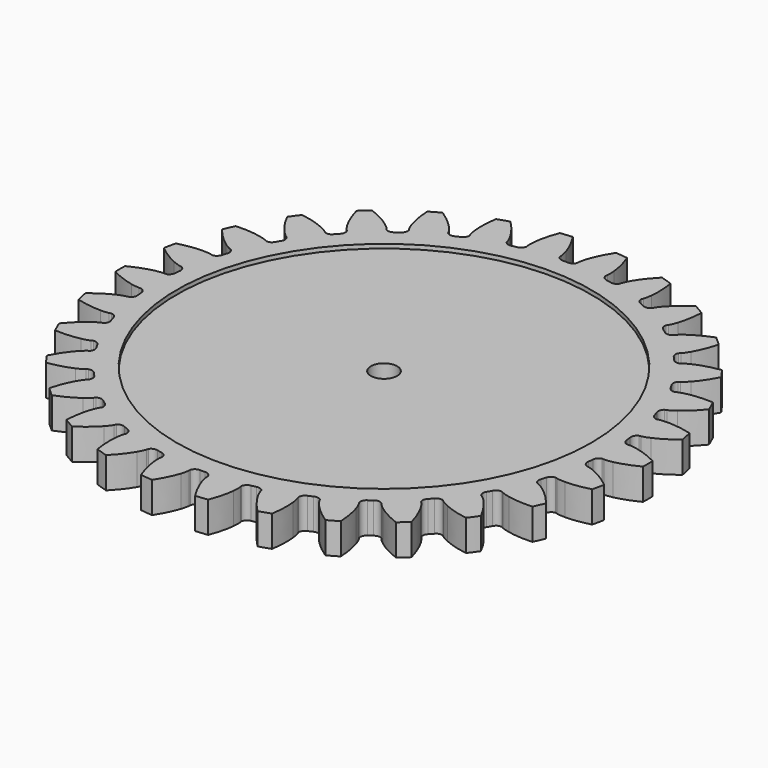
from build123d import *

# Parameters (mm, degrees)
PAD_DEPTH       = 15
SKETCH_R        = 6.35
POCKET_DEPTH    = 15.001
SKETCH001_R     = 100
POCKET001_DEPTH = 2
SKETCH002_R     = 100
POCKET002_DEPTH = 2


with BuildPart() as part:
    # InvoluteGear → Pad (new body)
    with BuildSketch(Plane.XY):
        with BuildLine():
            Line((111.187991, -7.490278), (112.111338, -7.546386))
            add(Edge.make_bspline(
                [(112.111338, -7.546386), (112.55093, -7.552148), (113.876021, -7.521992), (116.081397, -7.066139)],
                knots=[0, 0, 0, 0, 1, 1, 1, 1], degree=3))
            add(Edge.make_bspline(
                [(116.081397, -7.066139), (118.725732, -6.513499), (122.552614, -5.353826), (127.334298, -2.931801)],
                knots=[0, 0, 0, 0, 1, 1, 1, 1], degree=3))
            ThreePointArc((127.334298, -2.931801), (127.368047, 0), (127.334298, 2.931801))
            add(Edge.make_bspline(
                [(127.334298, 2.931801), (122.552614, 5.353826), (118.725732, 6.513499), (116.081397, 7.066139)],
                knots=[0, 0, 0, 0, 1, 1, 1, 1], degree=3))
            add(Edge.make_bspline(
                [(116.081397, 7.066139), (113.876021, 7.521992), (112.55093, 7.552148), (112.111338, 7.546386)],
                knots=[0, 0, 0, 0, 1, 1, 1, 1], degree=3))
            Line((112.111338, 7.546386), (111.187991, 7.490278))
            ThreePointArc((111.187991, 7.490278), (109.624334, 8.506337), (108.96879, 10.252092))
            ThreePointArc((108.96879, 10.252092), (108.850421, 11.44064), (108.71909, 12.627826))
            ThreePointArc((108.71909, 12.627826), (108.997346, 14.471728), (110.315583, 15.790686))
            Line((110.315583, 15.790686), (111.230418, 15.927779))
            add(Edge.make_bspline(
                [(111.230418, 15.927779), (111.661602, 16.013539), (112.951467, 16.318538), (115.013873, 17.222953)],
                knots=[0, 0, 0, 0, 1, 1, 1, 1], degree=3))
            add(Edge.make_bspline(
                [(115.013873, 17.222953), (117.485522, 18.313305), (120.987668, 20.243289), (125.161294, 23.606555)],
                knots=[0, 0, 0, 0, 1, 1, 1, 1], degree=3))
            ThreePointArc((125.161294, 23.606555), (124.58475, 26.481306), (123.942182, 29.342024))
            add(Edge.make_bspline(
                [(123.942182, 29.342024), (118.761422, 30.716953), (114.777057, 31.055631), (112.075607, 31.046406)],
                knots=[0, 0, 0, 0, 1, 1, 1, 1], degree=3))
            add(Edge.make_bspline(
                [(112.075607, 31.046406), (109.823647, 31.033775), (108.521242, 30.78777), (108.092455, 30.690737)],
                knots=[0, 0, 0, 0, 1, 1, 1, 1], degree=3))
            Line((108.092455, 30.690737), (107.20095, 30.443881))
            ThreePointArc((107.20095, 30.443881), (105.460212, 31.112633), (104.45603, 32.683944))
            ThreePointArc((104.45603, 32.683944), (104.093136, 33.82191), (103.717844, 34.955848))
            ThreePointArc((103.717844, 34.955848), (103.606651, 36.817308), (104.621855, 38.381521))
            Line((104.621855, 38.381521), (105.488195, 38.705823))
            add(Edge.make_bspline(
                [(105.488195, 38.705823), (105.892126, 38.879357), (107.090392, 39.445869), (108.919691, 40.759319)],
                knots=[0, 0, 0, 0, 1, 1, 1, 1], degree=3))
            add(Edge.make_bspline(
                [(108.919691, 40.759319), (111.110631, 42.339729), (114.134981, 44.955675), (117.51814, 49.113191)],
                knots=[0, 0, 0, 0, 1, 1, 1, 1], degree=3))
            ThreePointArc((117.51814, 49.113191), (116.356501, 51.805252), (115.133198, 54.469859))
            add(Edge.make_bspline(
                [(115.133198, 54.469859), (109.779786, 54.737602), (105.812074, 54.240483), (103.171576, 53.669797)],
                knots=[0, 0, 0, 0, 1, 1, 1, 1], degree=3))
            add(Edge.make_bspline(
                [(103.171576, 53.669797), (100.971452, 53.189232), (99.748656, 52.677818), (99.349412, 52.493756)],
                knots=[0, 0, 0, 0, 1, 1, 1, 1], degree=3))
            Line((99.349412, 52.493756), (98.528714, 52.06694))
            ThreePointArc((98.528714, 52.06694), (96.686973, 52.359159), (95.378041, 53.687352))
            ThreePointArc((95.378041, 53.687352), (94.78648, 54.725), (94.183631, 55.756131))
            ThreePointArc((94.183631, 55.756131), (93.687848, 57.553796), (94.355649, 59.294899))
            Line((94.355649, 59.294899), (95.135632, 59.792237))
            add(Edge.make_bspline(
                [(95.135632, 59.792237), (95.494656, 60.045961), (96.548953, 60.849227), (98.065195, 62.514307)],
                knots=[0, 0, 0, 0, 1, 1, 1, 1], degree=3))
            add(Edge.make_bspline(
                [(98.065195, 62.514307), (99.879673, 64.515703), (102.294047, 67.703283), (104.738881, 72.473345)],
                knots=[0, 0, 0, 0, 1, 1, 1, 1], degree=3))
            ThreePointArc((104.738881, 72.473345), (103.042915, 74.86506), (101.292341, 77.217099))
            add(Edge.make_bspline(
                [(101.292341, 77.217099), (96.000247, 76.365955), (92.222596, 75.054765), (89.758451, 73.94756)],
                knots=[0, 0, 0, 0, 1, 1, 1, 1], degree=3))
            add(Edge.make_bspline(
                [(89.758451, 73.94756), (87.706321, 73.020065), (86.616574, 72.265593), (86.264324, 72.002545)],
                knots=[0, 0, 0, 0, 1, 1, 1, 1], degree=3))
            Line((86.264324, 72.002545), (85.550299, 71.414424))
            ThreePointArc((85.550299, 71.414424), (83.68805, 71.317338), (82.131574, 72.344364))
            ThreePointArc((82.131574, 72.344364), (81.337201, 73.236345), (80.533141, 74.119604))
            ThreePointArc((80.533141, 74.119604), (79.674437, 75.774906), (79.965649, 77.616806))
            Line((79.965649, 77.616806), (80.625185, 78.265443))
            add(Edge.make_bspline(
                [(80.625185, 78.265443), (80.923612, 78.588268), (81.787861, 79.593181), (82.92478, 81.53712)],
                knots=[0, 0, 0, 0, 1, 1, 1, 1], degree=3))
            add(Edge.make_bspline(
                [(82.92478, 81.53712), (84.283494, 83.872032), (85.982373, 87.491932), (87.382029, 92.666067)],
                knots=[0, 0, 0, 0, 1, 1, 1, 1], degree=3))
            ThreePointArc((87.382029, 92.666067), (85.225859, 94.652905), (83.024523, 96.589583))
            add(Edge.make_bspline(
                [(83.024523, 96.589583), (78.025037, 94.65675), (74.602548, 92.588794), (72.422451, 90.993459)],
                knots=[0, 0, 0, 0, 1, 1, 1, 1], degree=3))
            add(Edge.make_bspline(
                [(72.422451, 90.993459), (70.608002, 89.659571), (69.698932, 88.695015), (69.40907, 88.364478)],
                knots=[0, 0, 0, 0, 1, 1, 1, 1], degree=3))
            Line((69.40907, 88.364478), (68.832926, 87.640754))
            ThreePointArc((68.832926, 87.640754), (67.031557, 87.158607), (65.295563, 87.839581))
            ThreePointArc((65.295563, 87.839581), (64.333096, 88.54691), (63.362967, 89.243694))
            ThreePointArc((63.362967, 89.243694), (62.17887, 90.684289), (62.080767, 92.546486))
            Line((62.080767, 92.546486), (62.591031, 93.318074))
            add(Edge.make_bspline(
                [(62.591031, 93.318074), (62.815817, 93.695891), (63.452247, 94.858532), (64.160154, 96.996369)],
                knots=[0, 0, 0, 0, 1, 1, 1, 1], degree=3))
            add(Edge.make_bspline(
                [(64.160154, 96.996369), (65.003721, 99.56275), (65.912856, 103.456764), (66.206163, 108.808836)],
                knots=[0, 0, 0, 0, 1, 1, 1, 1], degree=3))
            ThreePointArc((66.206163, 108.808836), (63.684024, 110.303964), (61.128135, 111.740637))
            add(Edge.make_bspline(
                [(61.128135, 111.740637), (56.639758, 108.81059), (53.722011, 106.076249), (51.921243, 104.062508)],
                knots=[0, 0, 0, 0, 1, 1, 1, 1], degree=3))
            add(Edge.make_bspline(
                [(51.921243, 104.062508), (50.423775, 102.380523), (49.735113, 101.248039), (49.520308, 100.86446)],
                knots=[0, 0, 0, 0, 1, 1, 1, 1], degree=3))
            Line((49.520308, 100.86446), (49.107224, 100.036764))
            ThreePointArc((49.107224, 100.036764), (47.445463, 99.190626), (45.605823, 99.495786))
            ThreePointArc((45.605823, 99.495786), (44.517326, 99.98755), (43.423527, 100.467407))
            ThreePointArc((43.423527, 100.467407), (41.965789, 101.630334), (41.482657, 103.43144))
            Line((41.482657, 103.43144), (41.821348, 104.292258))
            add(Edge.make_bspline(
                [(41.821348, 104.292258), (41.96267, 104.708553), (42.343465, 105.978109), (42.591422, 108.216412)],
                knots=[0, 0, 0, 0, 1, 1, 1, 1], degree=3))
            add(Edge.make_bspline(
                [(42.591422, 108.216412), (42.882974, 110.902099), (42.962632, 114.900039), (42.136771, 120.196137)],
                knots=[0, 0, 0, 0, 1, 1, 1, 1], degree=3))
            ThreePointArc((42.136771, 120.196137), (39.358891, 121.134211), (36.560153, 122.00809))
            add(Edge.make_bspline(
                [(36.560153, 122.00809), (32.779049, 118.208885), (30.493564, 114.927662), (29.150827, 112.583526)],
                knots=[0, 0, 0, 0, 1, 1, 1, 1], degree=3))
            add(Edge.make_bspline(
                [(29.150827, 112.583526), (28.035786, 110.626956), (27.597631, 109.376038), (27.46727, 108.95618)],
                knots=[0, 0, 0, 0, 1, 1, 1, 1], degree=3))
            Line((27.46727, 108.95618), (27.235301, 108.060687))
            ThreePointArc((27.235301, 108.060687), (25.785775, 106.887539), (23.922889, 106.803548))
            ThreePointArc((23.922889, 106.803548), (22.755935, 107.058255), (21.58627, 107.300212))
            ThreePointArc((21.58627, 107.300212), (19.918601, 108.134646), (19.071555, 109.795944))
            Line((19.071555, 109.795944), (19.223872, 110.708369))
            add(Edge.make_bspline(
                [(19.223872, 110.708369), (19.275552, 111.14495), (19.384071, 112.465934), (19.16124, 114.706879)],
                knots=[0, 0, 0, 0, 1, 1, 1, 1], degree=3))
            add(Edge.make_bspline(
                [(19.16124, 114.706879), (18.888035, 117.394494), (18.134734, 121.321631), (16.225799, 126.330291)],
                knots=[0, 0, 0, 0, 1, 1, 1, 1], degree=3))
            ThreePointArc((16.225799, 126.330291), (13.313586, 126.670312), (10.394318, 126.943204))
            add(Edge.make_bspline(
                [(10.394318, 126.943204), (7.485739, 122.440885), (5.932401, 118.756186), (5.10638, 116.184104)],
                knots=[0, 0, 0, 0, 1, 1, 1, 1], degree=3))
            add(Edge.make_bspline(
                [(5.10638, 116.184104), (4.4225, 114.038459), (4.253999, 112.723779), (4.21378, 112.285993)],
                knots=[0, 0, 0, 0, 1, 1, 1, 1], degree=3))
            Line((4.21378, 112.285993), (4.173064, 111.361839))
            ThreePointArc((4.173064, 111.361839), (2.999125, 109.912954), (1.19441, 109.443483))
            ThreePointArc((1.19441, 109.443483), (0, 109.45), (-1.19441, 109.443483))
            ThreePointArc((-1.19441, 109.443483), (-2.999125, 109.912954), (-4.173064, 111.361839))
            Line((-4.173064, 111.361839), (-4.21378, 112.285993))
            add(Edge.make_bspline(
                [(-4.21378, 112.285993), (-4.253999, 112.723779), (-4.4225, 114.038459), (-5.10638, 116.184104)],
                knots=[0, 0, 0, 0, 1, 1, 1, 1], degree=3))
            add(Edge.make_bspline(
                [(-5.10638, 116.184104), (-5.932401, 118.756186), (-7.485739, 122.440885), (-10.394318, 126.943204)],
                knots=[0, 0, 0, 0, 1, 1, 1, 1], degree=3))
            ThreePointArc((-10.394318, 126.943204), (-13.313586, 126.670312), (-16.225799, 126.330291))
            add(Edge.make_bspline(
                [(-16.225799, 126.330291), (-18.134734, 121.321631), (-18.888035, 117.394494), (-19.16124, 114.706879)],
                knots=[0, 0, 0, 0, 1, 1, 1, 1], degree=3))
            add(Edge.make_bspline(
                [(-19.16124, 114.706879), (-19.384071, 112.465934), (-19.275552, 111.14495), (-19.223872, 110.708369)],
                knots=[0, 0, 0, 0, 1, 1, 1, 1], degree=3))
            Line((-19.223872, 110.708369), (-19.071555, 109.795944))
            ThreePointArc((-19.071555, 109.795944), (-19.918601, 108.134646), (-21.58627, 107.300212))
            ThreePointArc((-21.58627, 107.300212), (-22.755935, 107.058255), (-23.922889, 106.803548))
            ThreePointArc((-23.922889, 106.803548), (-25.785775, 106.887539), (-27.235301, 108.060687))
            Line((-27.235301, 108.060687), (-27.46727, 108.95618))
            add(Edge.make_bspline(
                [(-27.46727, 108.95618), (-27.597631, 109.376038), (-28.035786, 110.626956), (-29.150827, 112.583526)],
                knots=[0, 0, 0, 0, 1, 1, 1, 1], degree=3))
            add(Edge.make_bspline(
                [(-29.150827, 112.583526), (-30.493564, 114.927662), (-32.779049, 118.208885), (-36.560153, 122.00809)],
                knots=[0, 0, 0, 0, 1, 1, 1, 1], degree=3))
            ThreePointArc((-36.560153, 122.00809), (-39.358891, 121.134211), (-42.136771, 120.196137))
            add(Edge.make_bspline(
                [(-42.136771, 120.196137), (-42.962632, 114.900039), (-42.882974, 110.902099), (-42.591422, 108.216412)],
                knots=[0, 0, 0, 0, 1, 1, 1, 1], degree=3))
            add(Edge.make_bspline(
                [(-42.591422, 108.216412), (-42.343465, 105.978109), (-41.96267, 104.708553), (-41.821348, 104.292258)],
                knots=[0, 0, 0, 0, 1, 1, 1, 1], degree=3))
            Line((-41.821348, 104.292258), (-41.482657, 103.43144))
            ThreePointArc((-41.482657, 103.43144), (-41.965789, 101.630334), (-43.423527, 100.467407))
            ThreePointArc((-43.423527, 100.467407), (-44.517326, 99.98755), (-45.605823, 99.495786))
            ThreePointArc((-45.605823, 99.495786), (-47.445463, 99.190626), (-49.107224, 100.036764))
            Line((-49.107224, 100.036764), (-49.520308, 100.86446))
            add(Edge.make_bspline(
                [(-49.520308, 100.86446), (-49.735113, 101.248039), (-50.423775, 102.380523), (-51.921243, 104.062508)],
                knots=[0, 0, 0, 0, 1, 1, 1, 1], degree=3))
            add(Edge.make_bspline(
                [(-51.921243, 104.062508), (-53.722011, 106.076249), (-56.639758, 108.81059), (-61.128135, 111.740637)],
                knots=[0, 0, 0, 0, 1, 1, 1, 1], degree=3))
            ThreePointArc((-61.128135, 111.740637), (-63.684024, 110.303964), (-66.206163, 108.808836))
            add(Edge.make_bspline(
                [(-66.206163, 108.808836), (-65.912856, 103.456764), (-65.003721, 99.56275), (-64.160154, 96.996369)],
                knots=[0, 0, 0, 0, 1, 1, 1, 1], degree=3))
            add(Edge.make_bspline(
                [(-64.160154, 96.996369), (-63.452247, 94.858532), (-62.815817, 93.695891), (-62.591031, 93.318074)],
                knots=[0, 0, 0, 0, 1, 1, 1, 1], degree=3))
            Line((-62.591031, 93.318074), (-62.080767, 92.546486))
            ThreePointArc((-62.080767, 92.546486), (-62.17887, 90.684289), (-63.362967, 89.243694))
            ThreePointArc((-63.362967, 89.243694), (-64.333096, 88.54691), (-65.295563, 87.839581))
            ThreePointArc((-65.295563, 87.839581), (-67.031557, 87.158607), (-68.832926, 87.640754))
            Line((-68.832926, 87.640754), (-69.40907, 88.364478))
            add(Edge.make_bspline(
                [(-69.40907, 88.364478), (-69.698932, 88.695015), (-70.608002, 89.659571), (-72.422451, 90.993459)],
                knots=[0, 0, 0, 0, 1, 1, 1, 1], degree=3))
            add(Edge.make_bspline(
                [(-72.422451, 90.993459), (-74.602548, 92.588794), (-78.025037, 94.65675), (-83.024523, 96.589583)],
                knots=[0, 0, 0, 0, 1, 1, 1, 1], degree=3))
            ThreePointArc((-83.024523, 96.589583), (-85.225859, 94.652905), (-87.382029, 92.666067))
            add(Edge.make_bspline(
                [(-87.382029, 92.666067), (-85.982373, 87.491932), (-84.283494, 83.872032), (-82.92478, 81.53712)],
                knots=[0, 0, 0, 0, 1, 1, 1, 1], degree=3))
            add(Edge.make_bspline(
                [(-82.92478, 81.53712), (-81.787861, 79.593181), (-80.923612, 78.588268), (-80.625185, 78.265443)],
                knots=[0, 0, 0, 0, 1, 1, 1, 1], degree=3))
            Line((-80.625185, 78.265443), (-79.965649, 77.616806))
            ThreePointArc((-79.965649, 77.616806), (-79.674437, 75.774906), (-80.533141, 74.119604))
            ThreePointArc((-80.533141, 74.119604), (-81.337201, 73.236345), (-82.131574, 72.344364))
            ThreePointArc((-82.131574, 72.344364), (-83.68805, 71.317338), (-85.550299, 71.414424))
            Line((-85.550299, 71.414424), (-86.264324, 72.002545))
            add(Edge.make_bspline(
                [(-86.264324, 72.002545), (-86.616574, 72.265593), (-87.706321, 73.020065), (-89.758451, 73.94756)],
                knots=[0, 0, 0, 0, 1, 1, 1, 1], degree=3))
            add(Edge.make_bspline(
                [(-89.758451, 73.94756), (-92.222596, 75.054765), (-96.000247, 76.365955), (-101.292341, 77.217099)],
                knots=[0, 0, 0, 0, 1, 1, 1, 1], degree=3))
            ThreePointArc((-101.292341, 77.217099), (-103.042915, 74.86506), (-104.738881, 72.473345))
            add(Edge.make_bspline(
                [(-104.738881, 72.473345), (-102.294047, 67.703283), (-99.879673, 64.515703), (-98.065195, 62.514307)],
                knots=[0, 0, 0, 0, 1, 1, 1, 1], degree=3))
            add(Edge.make_bspline(
                [(-98.065195, 62.514307), (-96.548953, 60.849227), (-95.494656, 60.045961), (-95.135632, 59.792237)],
                knots=[0, 0, 0, 0, 1, 1, 1, 1], degree=3))
            Line((-95.135632, 59.792237), (-94.355649, 59.294899))
            ThreePointArc((-94.355649, 59.294899), (-93.687848, 57.553796), (-94.183631, 55.756131))
            ThreePointArc((-94.183631, 55.756131), (-94.78648, 54.725), (-95.378041, 53.687352))
            ThreePointArc((-95.378041, 53.687352), (-96.686973, 52.359159), (-98.528714, 52.06694))
            Line((-98.528714, 52.06694), (-99.349412, 52.493756))
            add(Edge.make_bspline(
                [(-99.349412, 52.493756), (-99.748656, 52.677818), (-100.971452, 53.189232), (-103.171576, 53.669797)],
                knots=[0, 0, 0, 0, 1, 1, 1, 1], degree=3))
            add(Edge.make_bspline(
                [(-103.171576, 53.669797), (-105.812074, 54.240483), (-109.779786, 54.737602), (-115.133198, 54.469859)],
                knots=[0, 0, 0, 0, 1, 1, 1, 1], degree=3))
            ThreePointArc((-115.133198, 54.469859), (-116.356501, 51.805252), (-117.51814, 49.113191))
            add(Edge.make_bspline(
                [(-117.51814, 49.113191), (-114.134981, 44.955675), (-111.110631, 42.339729), (-108.919691, 40.759319)],
                knots=[0, 0, 0, 0, 1, 1, 1, 1], degree=3))
            add(Edge.make_bspline(
                [(-108.919691, 40.759319), (-107.090392, 39.445869), (-105.892126, 38.879357), (-105.488195, 38.705823)],
                knots=[0, 0, 0, 0, 1, 1, 1, 1], degree=3))
            Line((-105.488195, 38.705823), (-104.621855, 38.381521))
            ThreePointArc((-104.621855, 38.381521), (-103.606651, 36.817308), (-103.717844, 34.955848))
            ThreePointArc((-103.717844, 34.955848), (-104.093136, 33.82191), (-104.45603, 32.683944))
            ThreePointArc((-104.45603, 32.683944), (-105.460212, 31.112633), (-107.20095, 30.443881))
            Line((-107.20095, 30.443881), (-108.092455, 30.690737))
            add(Edge.make_bspline(
                [(-108.092455, 30.690737), (-108.521242, 30.78777), (-109.823647, 31.033775), (-112.075607, 31.046406)],
                knots=[0, 0, 0, 0, 1, 1, 1, 1], degree=3))
            add(Edge.make_bspline(
                [(-112.075607, 31.046406), (-114.777057, 31.055631), (-118.761422, 30.716953), (-123.942182, 29.342024)],
                knots=[0, 0, 0, 0, 1, 1, 1, 1], degree=3))
            ThreePointArc((-123.942182, 29.342024), (-124.58475, 26.481306), (-125.161294, 23.606555))
            add(Edge.make_bspline(
                [(-125.161294, 23.606555), (-120.987668, 20.243289), (-117.485522, 18.313305), (-115.013873, 17.222953)],
                knots=[0, 0, 0, 0, 1, 1, 1, 1], degree=3))
            add(Edge.make_bspline(
                [(-115.013873, 17.222953), (-112.951467, 16.318538), (-111.661602, 16.013539), (-111.230418, 15.927779)],
                knots=[0, 0, 0, 0, 1, 1, 1, 1], degree=3))
            Line((-111.230418, 15.927779), (-110.315583, 15.790686))
            ThreePointArc((-110.315583, 15.790686), (-108.997346, 14.471728), (-108.71909, 12.627826))
            ThreePointArc((-108.71909, 12.627826), (-108.850421, 11.44064), (-108.96879, 10.252092))
            ThreePointArc((-108.96879, 10.252092), (-109.624334, 8.506337), (-111.187991, 7.490278))
            Line((-111.187991, 7.490278), (-112.111338, 7.546386))
            add(Edge.make_bspline(
                [(-112.111338, 7.546386), (-112.55093, 7.552148), (-113.876021, 7.521992), (-116.081397, 7.066139)],
                knots=[0, 0, 0, 0, 1, 1, 1, 1], degree=3))
            add(Edge.make_bspline(
                [(-116.081397, 7.066139), (-118.725732, 6.513499), (-122.552614, 5.353826), (-127.334298, 2.931801)],
                knots=[0, 0, 0, 0, 1, 1, 1, 1], degree=3))
            ThreePointArc((-127.334298, 2.931801), (-127.368047, 0), (-127.334298, -2.931801))
            add(Edge.make_bspline(
                [(-127.334298, -2.931801), (-122.552614, -5.353826), (-118.725732, -6.513499), (-116.081397, -7.066139)],
                knots=[0, 0, 0, 0, 1, 1, 1, 1], degree=3))
            add(Edge.make_bspline(
                [(-116.081397, -7.066139), (-113.876021, -7.521992), (-112.55093, -7.552148), (-112.111338, -7.546386)],
                knots=[0, 0, 0, 0, 1, 1, 1, 1], degree=3))
            Line((-112.111338, -7.546386), (-111.187991, -7.490278))
            ThreePointArc((-111.187991, -7.490278), (-109.624334, -8.506337), (-108.96879, -10.252092))
            ThreePointArc((-108.96879, -10.252092), (-108.850421, -11.44064), (-108.71909, -12.627826))
            ThreePointArc((-108.71909, -12.627826), (-108.997346, -14.471728), (-110.315583, -15.790686))
            Line((-110.315583, -15.790686), (-111.230418, -15.927779))
            add(Edge.make_bspline(
                [(-111.230418, -15.927779), (-111.661602, -16.013539), (-112.951467, -16.318538), (-115.013873, -17.222953)],
                knots=[0, 0, 0, 0, 1, 1, 1, 1], degree=3))
            add(Edge.make_bspline(
                [(-115.013873, -17.222953), (-117.485522, -18.313305), (-120.987668, -20.243289), (-125.161294, -23.606555)],
                knots=[0, 0, 0, 0, 1, 1, 1, 1], degree=3))
            ThreePointArc((-125.161294, -23.606555), (-124.58475, -26.481306), (-123.942182, -29.342024))
            add(Edge.make_bspline(
                [(-123.942182, -29.342024), (-118.761422, -30.716953), (-114.777057, -31.055631), (-112.075607, -31.046406)],
                knots=[0, 0, 0, 0, 1, 1, 1, 1], degree=3))
            add(Edge.make_bspline(
                [(-112.075607, -31.046406), (-109.823647, -31.033775), (-108.521242, -30.78777), (-108.092455, -30.690737)],
                knots=[0, 0, 0, 0, 1, 1, 1, 1], degree=3))
            Line((-108.092455, -30.690737), (-107.20095, -30.443881))
            ThreePointArc((-107.20095, -30.443881), (-105.460212, -31.112633), (-104.45603, -32.683944))
            ThreePointArc((-104.45603, -32.683944), (-104.093136, -33.82191), (-103.717844, -34.955848))
            ThreePointArc((-103.717844, -34.955848), (-103.606651, -36.817308), (-104.621855, -38.381521))
            Line((-104.621855, -38.381521), (-105.488195, -38.705823))
            add(Edge.make_bspline(
                [(-105.488195, -38.705823), (-105.892126, -38.879357), (-107.090392, -39.445869), (-108.919691, -40.759319)],
                knots=[0, 0, 0, 0, 1, 1, 1, 1], degree=3))
            add(Edge.make_bspline(
                [(-108.919691, -40.759319), (-111.110631, -42.339729), (-114.134981, -44.955675), (-117.51814, -49.113191)],
                knots=[0, 0, 0, 0, 1, 1, 1, 1], degree=3))
            ThreePointArc((-117.51814, -49.113191), (-116.356501, -51.805252), (-115.133198, -54.469859))
            add(Edge.make_bspline(
                [(-115.133198, -54.469859), (-109.779786, -54.737602), (-105.812074, -54.240483), (-103.171576, -53.669797)],
                knots=[0, 0, 0, 0, 1, 1, 1, 1], degree=3))
            add(Edge.make_bspline(
                [(-103.171576, -53.669797), (-100.971452, -53.189232), (-99.748656, -52.677818), (-99.349412, -52.493756)],
                knots=[0, 0, 0, 0, 1, 1, 1, 1], degree=3))
            Line((-99.349412, -52.493756), (-98.528714, -52.06694))
            ThreePointArc((-98.528714, -52.06694), (-96.686973, -52.359159), (-95.378041, -53.687352))
            ThreePointArc((-95.378041, -53.687352), (-94.78648, -54.725), (-94.183631, -55.756131))
            ThreePointArc((-94.183631, -55.756131), (-93.687848, -57.553796), (-94.355649, -59.294899))
            Line((-94.355649, -59.294899), (-95.135632, -59.792237))
            add(Edge.make_bspline(
                [(-95.135632, -59.792237), (-95.494656, -60.045961), (-96.548953, -60.849227), (-98.065195, -62.514307)],
                knots=[0, 0, 0, 0, 1, 1, 1, 1], degree=3))
            add(Edge.make_bspline(
                [(-98.065195, -62.514307), (-99.879673, -64.515703), (-102.294047, -67.703283), (-104.738881, -72.473345)],
                knots=[0, 0, 0, 0, 1, 1, 1, 1], degree=3))
            ThreePointArc((-104.738881, -72.473345), (-103.042915, -74.86506), (-101.292341, -77.217099))
            add(Edge.make_bspline(
                [(-101.292341, -77.217099), (-96.000247, -76.365955), (-92.222596, -75.054765), (-89.758451, -73.94756)],
                knots=[0, 0, 0, 0, 1, 1, 1, 1], degree=3))
            add(Edge.make_bspline(
                [(-89.758451, -73.94756), (-87.706321, -73.020065), (-86.616574, -72.265593), (-86.264324, -72.002545)],
                knots=[0, 0, 0, 0, 1, 1, 1, 1], degree=3))
            Line((-86.264324, -72.002545), (-85.550299, -71.414424))
            ThreePointArc((-85.550299, -71.414424), (-83.68805, -71.317338), (-82.131574, -72.344364))
            ThreePointArc((-82.131574, -72.344364), (-81.337201, -73.236345), (-80.533141, -74.119604))
            ThreePointArc((-80.533141, -74.119604), (-79.674437, -75.774906), (-79.965649, -77.616806))
            Line((-79.965649, -77.616806), (-80.625185, -78.265443))
            add(Edge.make_bspline(
                [(-80.625185, -78.265443), (-80.923612, -78.588268), (-81.787861, -79.593181), (-82.92478, -81.53712)],
                knots=[0, 0, 0, 0, 1, 1, 1, 1], degree=3))
            add(Edge.make_bspline(
                [(-82.92478, -81.53712), (-84.283494, -83.872032), (-85.982373, -87.491932), (-87.382029, -92.666067)],
                knots=[0, 0, 0, 0, 1, 1, 1, 1], degree=3))
            ThreePointArc((-87.382029, -92.666067), (-85.225859, -94.652905), (-83.024523, -96.589583))
            add(Edge.make_bspline(
                [(-83.024523, -96.589583), (-78.025037, -94.65675), (-74.602548, -92.588794), (-72.422451, -90.993459)],
                knots=[0, 0, 0, 0, 1, 1, 1, 1], degree=3))
            add(Edge.make_bspline(
                [(-72.422451, -90.993459), (-70.608002, -89.659571), (-69.698932, -88.695015), (-69.40907, -88.364478)],
                knots=[0, 0, 0, 0, 1, 1, 1, 1], degree=3))
            Line((-69.40907, -88.364478), (-68.832926, -87.640754))
            ThreePointArc((-68.832926, -87.640754), (-67.031557, -87.158607), (-65.295563, -87.839581))
            ThreePointArc((-65.295563, -87.839581), (-64.333096, -88.54691), (-63.362967, -89.243694))
            ThreePointArc((-63.362967, -89.243694), (-62.17887, -90.684289), (-62.080767, -92.546486))
            Line((-62.080767, -92.546486), (-62.591031, -93.318074))
            add(Edge.make_bspline(
                [(-62.591031, -93.318074), (-62.815817, -93.695891), (-63.452247, -94.858532), (-64.160154, -96.996369)],
                knots=[0, 0, 0, 0, 1, 1, 1, 1], degree=3))
            add(Edge.make_bspline(
                [(-64.160154, -96.996369), (-65.003721, -99.56275), (-65.912856, -103.456764), (-66.206163, -108.808836)],
                knots=[0, 0, 0, 0, 1, 1, 1, 1], degree=3))
            ThreePointArc((-66.206163, -108.808836), (-63.684024, -110.303964), (-61.128135, -111.740637))
            add(Edge.make_bspline(
                [(-61.128135, -111.740637), (-56.639758, -108.81059), (-53.722011, -106.076249), (-51.921243, -104.062508)],
                knots=[0, 0, 0, 0, 1, 1, 1, 1], degree=3))
            add(Edge.make_bspline(
                [(-51.921243, -104.062508), (-50.423775, -102.380523), (-49.735113, -101.248039), (-49.520308, -100.86446)],
                knots=[0, 0, 0, 0, 1, 1, 1, 1], degree=3))
            Line((-49.520308, -100.86446), (-49.107224, -100.036764))
            ThreePointArc((-49.107224, -100.036764), (-47.445463, -99.190626), (-45.605823, -99.495786))
            ThreePointArc((-45.605823, -99.495786), (-44.517326, -99.98755), (-43.423527, -100.467407))
            ThreePointArc((-43.423527, -100.467407), (-41.965789, -101.630334), (-41.482657, -103.43144))
            Line((-41.482657, -103.43144), (-41.821348, -104.292258))
            add(Edge.make_bspline(
                [(-41.821348, -104.292258), (-41.96267, -104.708553), (-42.343465, -105.978109), (-42.591422, -108.216412)],
                knots=[0, 0, 0, 0, 1, 1, 1, 1], degree=3))
            add(Edge.make_bspline(
                [(-42.591422, -108.216412), (-42.882974, -110.902099), (-42.962632, -114.900039), (-42.136771, -120.196137)],
                knots=[0, 0, 0, 0, 1, 1, 1, 1], degree=3))
            ThreePointArc((-42.136771, -120.196137), (-39.358891, -121.134211), (-36.560153, -122.00809))
            add(Edge.make_bspline(
                [(-36.560153, -122.00809), (-32.779049, -118.208885), (-30.493564, -114.927662), (-29.150827, -112.583526)],
                knots=[0, 0, 0, 0, 1, 1, 1, 1], degree=3))
            add(Edge.make_bspline(
                [(-29.150827, -112.583526), (-28.035786, -110.626956), (-27.597631, -109.376038), (-27.46727, -108.95618)],
                knots=[0, 0, 0, 0, 1, 1, 1, 1], degree=3))
            Line((-27.46727, -108.95618), (-27.235301, -108.060687))
            ThreePointArc((-27.235301, -108.060687), (-25.785775, -106.887539), (-23.922889, -106.803548))
            ThreePointArc((-23.922889, -106.803548), (-22.755935, -107.058255), (-21.58627, -107.300212))
            ThreePointArc((-21.58627, -107.300212), (-19.918601, -108.134646), (-19.071555, -109.795944))
            Line((-19.071555, -109.795944), (-19.223872, -110.708369))
            add(Edge.make_bspline(
                [(-19.223872, -110.708369), (-19.275552, -111.14495), (-19.384071, -112.465934), (-19.16124, -114.706879)],
                knots=[0, 0, 0, 0, 1, 1, 1, 1], degree=3))
            add(Edge.make_bspline(
                [(-19.16124, -114.706879), (-18.888035, -117.394494), (-18.134734, -121.321631), (-16.225799, -126.330291)],
                knots=[0, 0, 0, 0, 1, 1, 1, 1], degree=3))
            ThreePointArc((-16.225799, -126.330291), (-13.313586, -126.670312), (-10.394318, -126.943204))
            add(Edge.make_bspline(
                [(-10.394318, -126.943204), (-7.485739, -122.440885), (-5.932401, -118.756186), (-5.10638, -116.184104)],
                knots=[0, 0, 0, 0, 1, 1, 1, 1], degree=3))
            add(Edge.make_bspline(
                [(-5.10638, -116.184104), (-4.4225, -114.038459), (-4.253999, -112.723779), (-4.21378, -112.285993)],
                knots=[0, 0, 0, 0, 1, 1, 1, 1], degree=3))
            Line((-4.21378, -112.285993), (-4.173064, -111.361839))
            ThreePointArc((-4.173064, -111.361839), (-2.999125, -109.912954), (-1.19441, -109.443483))
            ThreePointArc((-1.19441, -109.443483), (0, -109.45), (1.19441, -109.443483))
            ThreePointArc((1.19441, -109.443483), (2.999125, -109.912954), (4.173064, -111.361839))
            Line((4.173064, -111.361839), (4.21378, -112.285993))
            add(Edge.make_bspline(
                [(4.21378, -112.285993), (4.253999, -112.723779), (4.4225, -114.038459), (5.10638, -116.184104)],
                knots=[0, 0, 0, 0, 1, 1, 1, 1], degree=3))
            add(Edge.make_bspline(
                [(5.10638, -116.184104), (5.932401, -118.756186), (7.485739, -122.440885), (10.394318, -126.943204)],
                knots=[0, 0, 0, 0, 1, 1, 1, 1], degree=3))
            ThreePointArc((10.394318, -126.943204), (13.313586, -126.670312), (16.225799, -126.330291))
            add(Edge.make_bspline(
                [(16.225799, -126.330291), (18.134734, -121.321631), (18.888035, -117.394494), (19.16124, -114.706879)],
                knots=[0, 0, 0, 0, 1, 1, 1, 1], degree=3))
            add(Edge.make_bspline(
                [(19.16124, -114.706879), (19.384071, -112.465934), (19.275552, -111.14495), (19.223872, -110.708369)],
                knots=[0, 0, 0, 0, 1, 1, 1, 1], degree=3))
            Line((19.223872, -110.708369), (19.071555, -109.795944))
            ThreePointArc((19.071555, -109.795944), (19.918601, -108.134646), (21.58627, -107.300212))
            ThreePointArc((21.58627, -107.300212), (22.755935, -107.058255), (23.922889, -106.803548))
            ThreePointArc((23.922889, -106.803548), (25.785775, -106.887539), (27.235301, -108.060687))
            Line((27.235301, -108.060687), (27.46727, -108.95618))
            add(Edge.make_bspline(
                [(27.46727, -108.95618), (27.597631, -109.376038), (28.035786, -110.626956), (29.150827, -112.583526)],
                knots=[0, 0, 0, 0, 1, 1, 1, 1], degree=3))
            add(Edge.make_bspline(
                [(29.150827, -112.583526), (30.493564, -114.927662), (32.779049, -118.208885), (36.560153, -122.00809)],
                knots=[0, 0, 0, 0, 1, 1, 1, 1], degree=3))
            ThreePointArc((36.560153, -122.00809), (39.358891, -121.134211), (42.136771, -120.196137))
            add(Edge.make_bspline(
                [(42.136771, -120.196137), (42.962632, -114.900039), (42.882974, -110.902099), (42.591422, -108.216412)],
                knots=[0, 0, 0, 0, 1, 1, 1, 1], degree=3))
            add(Edge.make_bspline(
                [(42.591422, -108.216412), (42.343465, -105.978109), (41.96267, -104.708553), (41.821348, -104.292258)],
                knots=[0, 0, 0, 0, 1, 1, 1, 1], degree=3))
            Line((41.821348, -104.292258), (41.482657, -103.43144))
            ThreePointArc((41.482657, -103.43144), (41.965789, -101.630334), (43.423527, -100.467407))
            ThreePointArc((43.423527, -100.467407), (44.517326, -99.98755), (45.605823, -99.495786))
            ThreePointArc((45.605823, -99.495786), (47.445463, -99.190626), (49.107224, -100.036764))
            Line((49.107224, -100.036764), (49.520308, -100.86446))
            add(Edge.make_bspline(
                [(49.520308, -100.86446), (49.735113, -101.248039), (50.423775, -102.380523), (51.921243, -104.062508)],
                knots=[0, 0, 0, 0, 1, 1, 1, 1], degree=3))
            add(Edge.make_bspline(
                [(51.921243, -104.062508), (53.722011, -106.076249), (56.639758, -108.81059), (61.128135, -111.740637)],
                knots=[0, 0, 0, 0, 1, 1, 1, 1], degree=3))
            ThreePointArc((61.128135, -111.740637), (63.684024, -110.303964), (66.206163, -108.808836))
            add(Edge.make_bspline(
                [(66.206163, -108.808836), (65.912856, -103.456764), (65.003721, -99.56275), (64.160154, -96.996369)],
                knots=[0, 0, 0, 0, 1, 1, 1, 1], degree=3))
            add(Edge.make_bspline(
                [(64.160154, -96.996369), (63.452247, -94.858532), (62.815817, -93.695891), (62.591031, -93.318074)],
                knots=[0, 0, 0, 0, 1, 1, 1, 1], degree=3))
            Line((62.591031, -93.318074), (62.080767, -92.546486))
            ThreePointArc((62.080767, -92.546486), (62.17887, -90.684289), (63.362967, -89.243694))
            ThreePointArc((63.362967, -89.243694), (64.333096, -88.54691), (65.295563, -87.839581))
            ThreePointArc((65.295563, -87.839581), (67.031557, -87.158607), (68.832926, -87.640754))
            Line((68.832926, -87.640754), (69.40907, -88.364478))
            add(Edge.make_bspline(
                [(69.40907, -88.364478), (69.698932, -88.695015), (70.608002, -89.659571), (72.422451, -90.993459)],
                knots=[0, 0, 0, 0, 1, 1, 1, 1], degree=3))
            add(Edge.make_bspline(
                [(72.422451, -90.993459), (74.602548, -92.588794), (78.025037, -94.65675), (83.024523, -96.589583)],
                knots=[0, 0, 0, 0, 1, 1, 1, 1], degree=3))
            ThreePointArc((83.024523, -96.589583), (85.225859, -94.652905), (87.382029, -92.666067))
            add(Edge.make_bspline(
                [(87.382029, -92.666067), (85.982373, -87.491932), (84.283494, -83.872032), (82.92478, -81.53712)],
                knots=[0, 0, 0, 0, 1, 1, 1, 1], degree=3))
            add(Edge.make_bspline(
                [(82.92478, -81.53712), (81.787861, -79.593181), (80.923612, -78.588268), (80.625185, -78.265443)],
                knots=[0, 0, 0, 0, 1, 1, 1, 1], degree=3))
            Line((80.625185, -78.265443), (79.965649, -77.616806))
            ThreePointArc((79.965649, -77.616806), (79.674437, -75.774906), (80.533141, -74.119604))
            ThreePointArc((80.533141, -74.119604), (81.337201, -73.236345), (82.131574, -72.344364))
            ThreePointArc((82.131574, -72.344364), (83.68805, -71.317338), (85.550299, -71.414424))
            Line((85.550299, -71.414424), (86.264324, -72.002545))
            add(Edge.make_bspline(
                [(86.264324, -72.002545), (86.616574, -72.265593), (87.706321, -73.020065), (89.758451, -73.94756)],
                knots=[0, 0, 0, 0, 1, 1, 1, 1], degree=3))
            add(Edge.make_bspline(
                [(89.758451, -73.94756), (92.222596, -75.054765), (96.000247, -76.365955), (101.292341, -77.217099)],
                knots=[0, 0, 0, 0, 1, 1, 1, 1], degree=3))
            ThreePointArc((101.292341, -77.217099), (103.042915, -74.86506), (104.738881, -72.473345))
            add(Edge.make_bspline(
                [(104.738881, -72.473345), (102.294047, -67.703283), (99.879673, -64.515703), (98.065195, -62.514307)],
                knots=[0, 0, 0, 0, 1, 1, 1, 1], degree=3))
            add(Edge.make_bspline(
                [(98.065195, -62.514307), (96.548953, -60.849227), (95.494656, -60.045961), (95.135632, -59.792237)],
                knots=[0, 0, 0, 0, 1, 1, 1, 1], degree=3))
            Line((95.135632, -59.792237), (94.355649, -59.294899))
            ThreePointArc((94.355649, -59.294899), (93.687848, -57.553796), (94.183631, -55.756131))
            ThreePointArc((94.183631, -55.756131), (94.78648, -54.725), (95.378041, -53.687352))
            ThreePointArc((95.378041, -53.687352), (96.686973, -52.359159), (98.528714, -52.06694))
            Line((98.528714, -52.06694), (99.349412, -52.493756))
            add(Edge.make_bspline(
                [(99.349412, -52.493756), (99.748656, -52.677818), (100.971452, -53.189232), (103.171576, -53.669797)],
                knots=[0, 0, 0, 0, 1, 1, 1, 1], degree=3))
            add(Edge.make_bspline(
                [(103.171576, -53.669797), (105.812074, -54.240483), (109.779786, -54.737602), (115.133198, -54.469859)],
                knots=[0, 0, 0, 0, 1, 1, 1, 1], degree=3))
            ThreePointArc((115.133198, -54.469859), (116.356501, -51.805252), (117.51814, -49.113191))
            add(Edge.make_bspline(
                [(117.51814, -49.113191), (114.134981, -44.955675), (111.110631, -42.339729), (108.919691, -40.759319)],
                knots=[0, 0, 0, 0, 1, 1, 1, 1], degree=3))
            add(Edge.make_bspline(
                [(108.919691, -40.759319), (107.090392, -39.445869), (105.892126, -38.879357), (105.488195, -38.705823)],
                knots=[0, 0, 0, 0, 1, 1, 1, 1], degree=3))
            Line((105.488195, -38.705823), (104.621855, -38.381521))
            ThreePointArc((104.621855, -38.381521), (103.606651, -36.817308), (103.717844, -34.955848))
            ThreePointArc((103.717844, -34.955848), (104.093136, -33.82191), (104.45603, -32.683944))
            ThreePointArc((104.45603, -32.683944), (105.460212, -31.112633), (107.20095, -30.443881))
            Line((107.20095, -30.443881), (108.092455, -30.690737))
            add(Edge.make_bspline(
                [(108.092455, -30.690737), (108.521242, -30.78777), (109.823647, -31.033775), (112.075607, -31.046406)],
                knots=[0, 0, 0, 0, 1, 1, 1, 1], degree=3))
            add(Edge.make_bspline(
                [(112.075607, -31.046406), (114.777057, -31.055631), (118.761422, -30.716953), (123.942182, -29.342024)],
                knots=[0, 0, 0, 0, 1, 1, 1, 1], degree=3))
            ThreePointArc((123.942182, -29.342024), (124.58475, -26.481306), (125.161294, -23.606555))
            add(Edge.make_bspline(
                [(125.161294, -23.606555), (120.987668, -20.243289), (117.485522, -18.313305), (115.013873, -17.222953)],
                knots=[0, 0, 0, 0, 1, 1, 1, 1], degree=3))
            add(Edge.make_bspline(
                [(115.013873, -17.222953), (112.951467, -16.318538), (111.661602, -16.013539), (111.230418, -15.927779)],
                knots=[0, 0, 0, 0, 1, 1, 1, 1], degree=3))
            Line((111.230418, -15.927779), (110.315583, -15.790686))
            ThreePointArc((110.315583, -15.790686), (108.997346, -14.471728), (108.71909, -12.627826))
            ThreePointArc((108.71909, -12.627826), (108.850421, -11.44064), (108.96879, -10.252092))
            ThreePointArc((108.96879, -10.252092), (109.624334, -8.506337), (111.187991, -7.490278))
        make_face()
    extrude(amount=PAD_DEPTH)

    # Sketch (on Face302 of Pad) → Pocket (cut, through all)
    with BuildSketch(Plane.XY.offset(15)):
        Circle(SKETCH_R)
    extrude(amount=-POCKET_DEPTH, mode=Mode.SUBTRACT)

    # Sketch001 (on Face5 of Pocket) → Pocket001 (cut)
    with BuildSketch(Plane.XY.offset(15)):
        Circle(SKETCH001_R)
    extrude(amount=-POCKET001_DEPTH, mode=Mode.SUBTRACT)

    # Sketch002 (on Face4 of Pocket001) → Pocket002 (cut)
    with BuildSketch(Plane(origin=(0, 0, 0), x_dir=(1, 0, 0), z_dir=(0, 0, -1))):
        Circle(SKETCH002_R)
    extrude(amount=-POCKET002_DEPTH, mode=Mode.SUBTRACT)


solid = part.part
